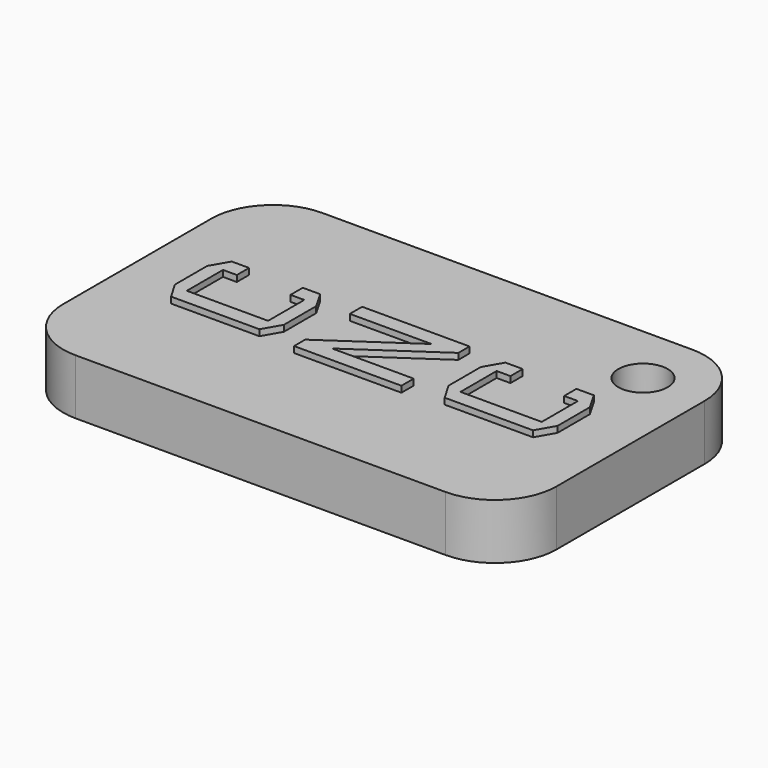
from build123d import *

# Parameters (mm, degrees)
F0_R     = 2
F1_DEPTH = 5
F2_W     = 42.5312
F2_H     = 26.740546
F2_R     = 2
F3_DEPTH = 0.5


with BuildPart() as f1:
    # F0 (on Top) → F1 (new body)
    with BuildSketch(Plane.XY):
        with BuildLine():
            Line((15, 12.5), (-15, 12.5))
            ThreePointArc((-15, 12.5), (-18.535534, 11.035534), (-20, 7.5))
            Line((-20, 7.5), (-20, -7.5))
            ThreePointArc((-20, -7.5), (-18.535534, -11.035534), (-15, -12.5))
            Line((-15, -12.5), (15, -12.5))
            ThreePointArc((15, -12.5), (18.535534, -11.035534), (20, -7.5))
            Line((20, -7.5), (20, 7.5))
            ThreePointArc((20, 7.5), (18.535534, 11.035534), (15, 12.5))
        make_face()
        with Locations((15, 7.5)):
            Circle(F0_R, mode=Mode.SUBTRACT)
    extrude(amount=F1_DEPTH)

    # F2 (on face) → F3 (cut)
    with BuildSketch(Plane.XY.offset(5)):
        Rectangle(F2_W, F2_H)
        with BuildLine():
            Line((-15, 12.5), (15, 12.5))
            ThreePointArc((15, 12.5), (18.535534, 11.035534), (20, 7.5))
            Line((20, 7.5), (20, -7.5))
            ThreePointArc((20, -7.5), (18.535534, -11.035534), (15, -12.5))
            Line((15, -12.5), (-15, -12.5))
            ThreePointArc((-15, -12.5), (-18.535534, -11.035534), (-20, -7.5))
            Line((-20, -7.5), (-20, 7.5))
            ThreePointArc((-20, 7.5), (-18.535534, 11.035534), (-15, 12.5))
        make_face(mode=Mode.SUBTRACT)
        with Locations((15, 7.5)):
            Circle(F2_R)
        with BuildLine():
            ThreePointArc((20, 7.5), (18.535534, 11.035534), (15, 12.5))
            Line((15, 12.5), (-15, 12.5))
            ThreePointArc((-15, 12.5), (-18.535534, 11.035534), (-20, 7.5))
            Line((-20, 7.5), (-20, -7.5))
            ThreePointArc((-20, -7.5), (-18.535534, -11.035534), (-15, -12.5))
            Line((-15, -12.5), (15, -12.5))
            ThreePointArc((15, -12.5), (18.535534, -11.035534), (20, -7.5))
            Line((20, -7.5), (20, 7.5))
        make_face()
        Polygon((-7.840759, 1.722246), (-8.956835, 1.722246), (-8.956835, 2.966643), (-7.551199, 2.966643), (-6.720365, 1.523822), (-6.720365, -1.746251), (-7.551199, -3.189047), (-14.715777, -3.189047), (-15.550929, -1.746251), (-15.550929, 1.523822), (-14.715777, 2.966643), (-13.310141, 2.966643), (-13.310141, 1.722246), (-14.430535, 1.722246), (-14.430535, -1.944701), (-7.840759, -1.944701), align=None, mode=Mode.SUBTRACT)
        Polygon((-2.267872, -2.351202), (-2.267872, -2.376044), (4.309483, -2.376044), (4.309483, -3.62039), (-4.396925, -3.62039), (-4.396925, -2.491791), (2.18457, 2.010257), (2.18457, 2.035098), (-4.396925, 2.035098), (-4.396925, 3.279444), (4.309483, 3.279444), (4.309483, 2.146706), align=None, mode=Mode.SUBTRACT)
        Polygon((14.343017, 1.722246), (13.226788, 1.722246), (13.226788, 2.966643), (14.632399, 2.966643), (15.463335, 1.523822), (15.463335, -1.746251), (14.632399, -3.189047), (7.467973, -3.189047), (6.632872, -1.746251), (6.632872, 1.523822), (7.467973, 2.966643), (8.873559, 2.966643), (8.873559, 1.722246), (7.753241, 1.722246), (7.753241, -1.944701), (14.343017, -1.944701), align=None, mode=Mode.SUBTRACT)
        with Locations((15, 7.5)):
            Circle(F2_R, mode=Mode.SUBTRACT)
    extrude(amount=-F3_DEPTH, mode=Mode.SUBTRACT)


solid = f1.part
